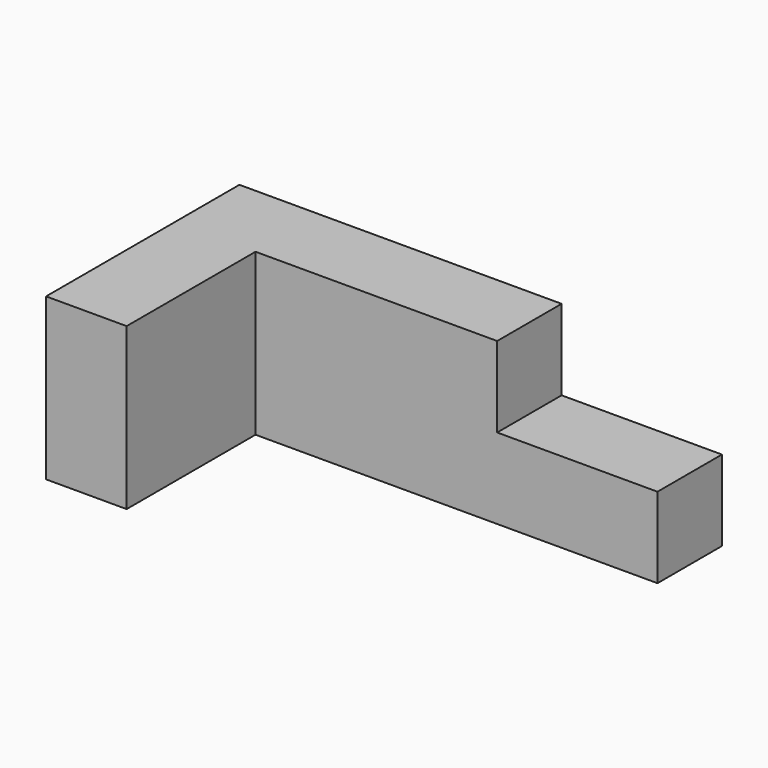
from build123d import *

# Parameters (mm, degrees)
F0_W      = 25.4
F0_H      = 50.8
F3_DEPTH  = 50.8
F1_W      = 25.4
F1_H      = 25.4
F4_DEPTH  = 50.8
F2_W      = 76.2
F2_H      = 25.4
F5_DEPTH  = 25.4
F5_FACE_W = 76.2
F5_FACE_H = 25.4
F6_DEPTH  = 25.4
F7_W      = 50.8
F7_H      = 25.4
F8_DEPTH  = 25.4


with BuildPart() as f3:
    # F0 (on Top) → F3 (new body)
    with BuildSketch(Plane.XY):
        with Locations((-12.7, -25.4)):
            Rectangle(F0_W, F0_H)
    extrude(amount=F3_DEPTH)

    # F1 (on Top) → F4 (join)
    with BuildSketch(Plane.XY):
        with Locations((-12.7, 12.7)):
            Rectangle(F1_W, F1_H)
    extrude(amount=F4_DEPTH)

    # F2 (on Top) → F5 (join)
    with BuildSketch(Plane.XY):
        with Locations((38.1, 12.7)):
            Rectangle(F2_W, F2_H)
    extrude(amount=F5_DEPTH)

    # F5_face (on face) → F6 (join)
    with BuildSketch(Plane(origin=(38.1, 12.7, 25.4), x_dir=(1, 0, 0), z_dir=(0, 0, 1))):
        Rectangle(F5_FACE_W, F5_FACE_H)
    extrude(amount=F6_DEPTH)

    # F7 (on Top) → F8 (join)
    with BuildSketch(Plane.XY):
        with Locations((101.3518, 12.7)):
            Rectangle(F7_W, F7_H)
    extrude(amount=F8_DEPTH)


solid = f3.part
